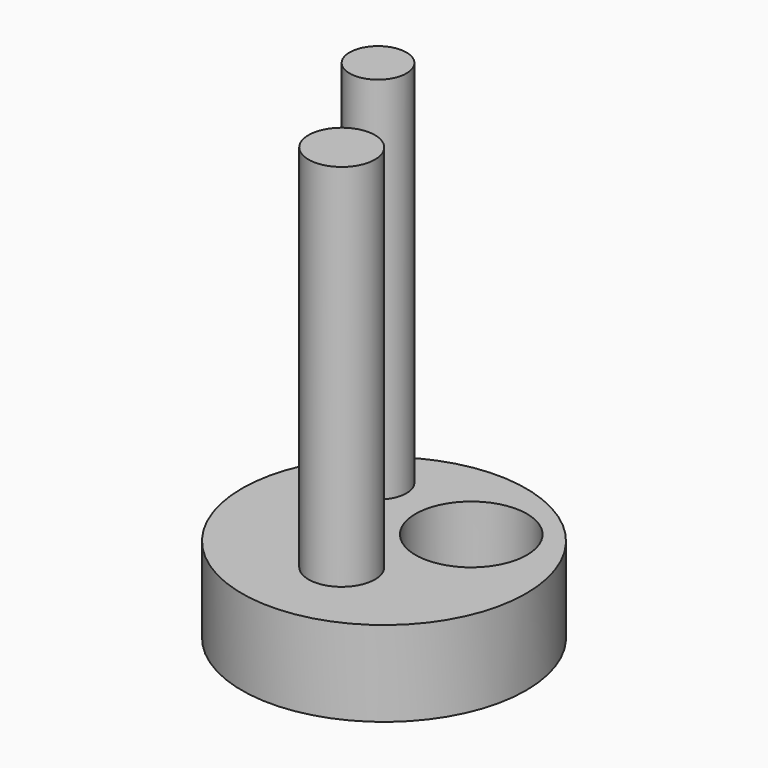
from build123d import *

# Parameters (mm, degrees)
F1_R     = 7.9375
F1_R_2   = 1.8542
F1_R_3   = 1.5875
F1_R_4   = 3.1115
F2_DEPTH = 4.7625
F3_R     = 1.5875
F3_R_2   = 1.8542
F4_DEPTH = 25.4


with BuildPart() as f2:
    # F1 (on Top) → F2 (new body)
    with BuildSketch(Plane.XY):
        with Locations((0.832931, 1.974197)):
            Circle(F1_R)
        with Locations((0.940828, -1.110016)):
            Circle(F1_R_2, mode=Mode.SUBTRACT)
        with Locations((-2.805024, 6.103854)):
            Circle(F1_R_3, mode=Mode.SUBTRACT)
        with Locations((3.41668, 4.833854)):
            Circle(F1_R_4, mode=Mode.SUBTRACT)
    extrude(amount=F2_DEPTH)


with BuildPart() as f4:
    # F3 (on face) → F4 (new body)
    with BuildSketch(Plane(origin=(0, 0, 0), x_dir=(1, 0, 0), z_dir=(0, 0, -1))):
        with Locations((-2.805024, -6.103854)):
            Circle(F3_R)
        with Locations((0.940828, 1.110016)):
            Circle(F3_R_2)
    extrude(amount=-F4_DEPTH)


solid = Compound([f2.part, f4.part])
